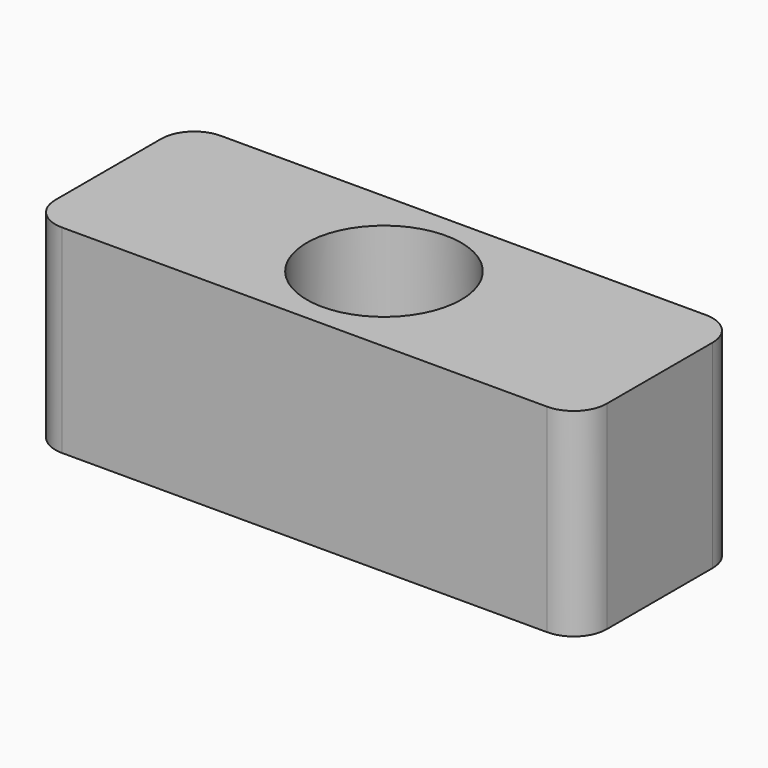
from build123d import *

# Parameters (mm, degrees)
SKETCH_W     = 50
SKETCH_H     = 18
SKETCH_R     = 4.1
PAD001_DEPTH = 18
FILLET_R     = 3
SKETCH003_R  = 7
POCKET_DEPTH = 9


with BuildPart() as part:
    # Sketch → Pad001 (new body)
    with BuildSketch(Plane.XY):
        Rectangle(SKETCH_W, SKETCH_H)
        Circle(SKETCH_R, mode=Mode.SUBTRACT)
    extrude(amount=-PAD001_DEPTH)

    # Fillet
    fillet_edges = [part.edges().sort_by_distance(p)[0] for p in [
        (25, -9, -9),
        (25, 9, -9),
        (-25, 9, -9),
        (-25, -9, -9),
    ]]
    fillet(fillet_edges, radius=FILLET_R)

    # Sketch003 (on Face2 of Fillet) → Pocket (cut)
    with BuildSketch(Plane.XY):
        Circle(SKETCH003_R)
    extrude(amount=-POCKET_DEPTH, mode=Mode.SUBTRACT)


solid = part.part
